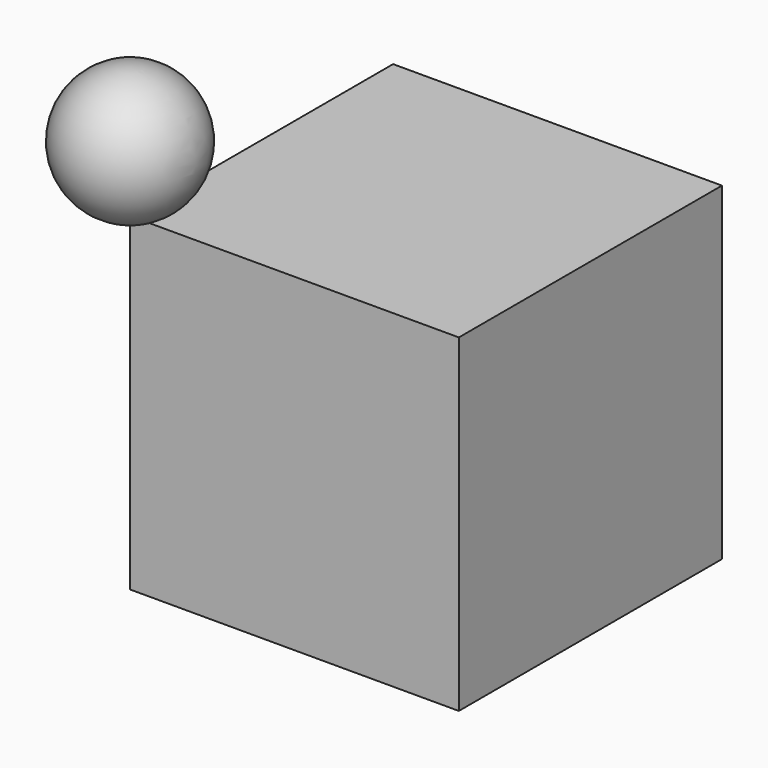
from build123d import *

# Parameters (mm, degrees)
BOX_W     = 10
BOX_H     = 10
BOX_DEPTH = 10


with BuildPart() as nuestro_primer_cubo:
    # Box → Box (new body)
    with BuildSketch(Plane.XY):
        with Locations((5, 5)):
            Rectangle(BOX_W, BOX_H)
    extrude(amount=BOX_DEPTH)


with BuildPart() as nuestra_primera_esfera:
    # Sphere → Sphere (revolve)
    with BuildSketch(Plane(origin=(0, 0, 12), x_dir=(1, 0, 0), z_dir=(0, -1, 0))):
        with BuildLine():
            ThreePointArc((0, -2), (2, 0), (0, 2))
            Line((0, 2), (0, -2))
        make_face()
    revolve(axis=Axis((0, 0, 12), (0, 0, 1)))


solid = Compound([nuestro_primer_cubo.part, nuestra_primera_esfera.part])
